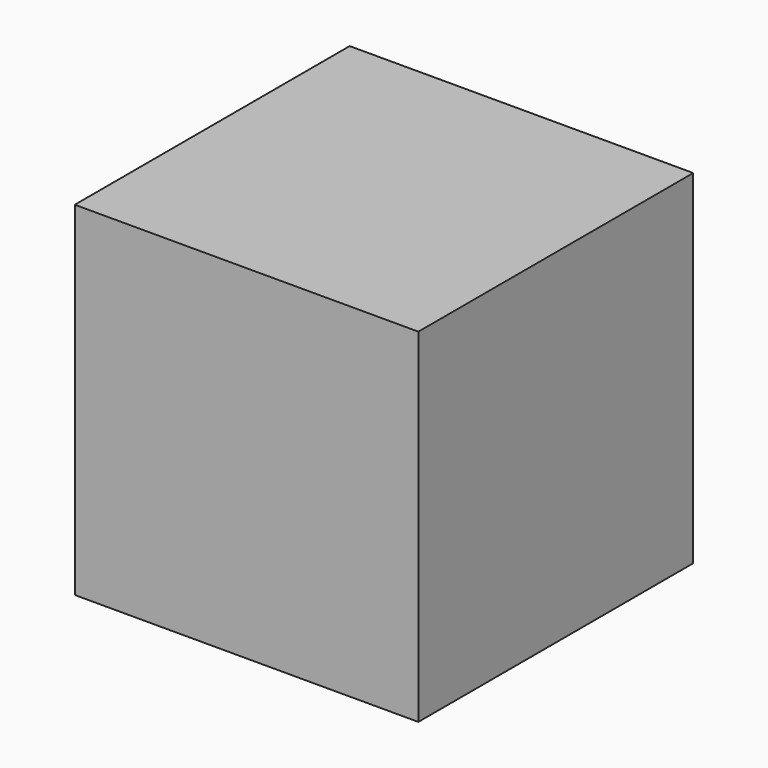
from build123d import *

# Parameters (mm, degrees)
OBJ1     = 10
OBJ2     = 10
OBJ3 = 10


with BuildPart() as part:
    with BuildSketch(Plane.XY):
        with Locations((5, 5)):
            Rectangle(OBJ1, OBJ2)
    extrude(amount=OBJ3)


solid = part.part
